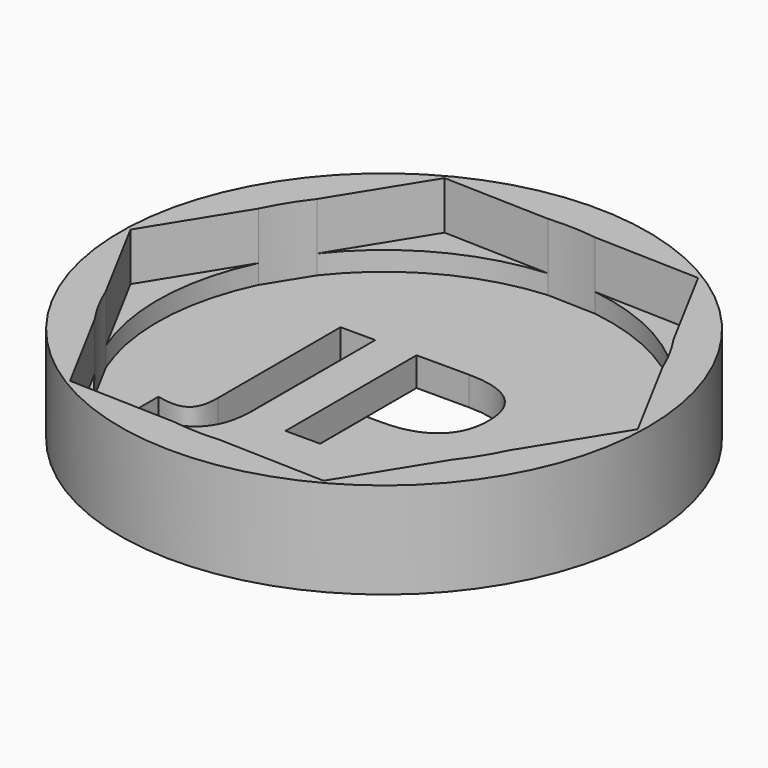
from build123d import *

# Parameters (mm, degrees)
F0_R     = 69.796681711
F1_DEPTH = 25.4
F2_DEPTH = 12.7
F3_DEPTH = 7.62


with BuildPart() as f1:
    # F0 (on Top) → F1 (new body)
    with BuildSketch(Plane.XY):
        Circle(F0_R)
        with BuildLine():
            Line((8.2760019114, 59.3649804818), (36.2610376693, 58.4861839798))
            Line((36.2610376693, 58.4861839798), (49.4924954528, 33.8110338366))
            ThreePointArc((49.4924954528, 33.8110338366), (52.8238405465, 28.3255182682), (55.5495821482, 22.5152623438))
            Line((55.5495821482, 22.5152623438), (68.7810399316, -2.1598877993))
            Line((68.7810399316, -2.1598877993), (54.0274619571, -25.9562414405))
            ThreePointArc((54.0274619571, -25.9562414405), (50.9425386689, -31.5840287047), (47.2735802367, -36.849718138))
            Line((47.2735802367, -36.849718138), (32.5200022623, -60.6460717791))
            Line((32.5200022623, -60.6460717791), (4.5349665043, -59.7672752771))
            ThreePointArc((4.5349665043, -59.7672752771), (-1.8813018777, -59.9095469729), (-8.2760019114, -59.3649804818))
            Line((-8.2760019114, -59.3649804818), (-36.2610376693, -58.4861839798))
            Line((-36.2610376693, -58.4861839798), (-49.4924954528, -33.8110338366))
            ThreePointArc((-49.4924954528, -33.8110338366), (-52.8238405465, -28.3255182682), (-55.5495821482, -22.5152623438))
            Line((-55.5495821482, -22.5152623438), (-68.7810399316, 2.1598877993))
            Line((-68.7810399316, 2.1598877993), (-54.0274619571, 25.9562414405))
            ThreePointArc((-54.0274619571, 25.9562414405), (-50.9425386689, 31.5840287047), (-47.2735802367, 36.849718138))
            Line((-47.2735802367, 36.849718138), (-32.5200022623, 60.6460717791))
            Line((-32.5200022623, 60.6460717791), (-4.5349665043, 59.7672752771))
            ThreePointArc((-4.5349665043, 59.7672752771), (1.8813018777, 59.9095469729), (8.2760019114, 59.3649804818))
        make_face(mode=Mode.SUBTRACT)
    extrude(amount=F1_DEPTH)


with BuildPart() as f2:
    # F0 (on Top) → F2 (new body)
    with BuildSketch(Plane.XY):
        with BuildLine():
            ThreePointArc((-55.5495821482, -22.5152623438), (-59.9095469729, 1.8813018777), (-54.0274619571, 25.9562414405))
            Line((-54.0274619571, 25.9562414405), (-68.7810399316, 2.1598877993))
            Line((-68.7810399316, 2.1598877993), (-55.5495821482, -22.5152623438))
        make_face()
    extrude(amount=F2_DEPTH)


with BuildPart() as f2b:
    # F0 (on Top) → F2, piece 2 (new body)
    with BuildSketch(Plane.XY):
        with BuildLine():
            ThreePointArc((-8.2760019114, -59.3649804818), (-31.5840287047, -50.9425386689), (-49.4924954528, -33.8110338366))
            Line((-49.4924954528, -33.8110338366), (-36.2610376693, -58.4861839798))
            Line((-36.2610376693, -58.4861839798), (-8.2760019114, -59.3649804818))
        make_face()
    extrude(amount=F2_DEPTH)


with BuildPart() as f2c:
    # F0 (on Top) → F2, piece 3 (new body)
    with BuildSketch(Plane.XY):
        with BuildLine():
            ThreePointArc((-47.2735802367, 36.849718138), (-28.3255182682, 52.8238405465), (-4.5349665043, 59.7672752771))
            Line((-4.5349665043, 59.7672752771), (-32.5200022623, 60.6460717791))
            Line((-32.5200022623, 60.6460717791), (-47.2735802367, 36.849718138))
        make_face()
    extrude(amount=F2_DEPTH)


with BuildPart() as f2d:
    # F0 (on Top) → F2, piece 4 (new body)
    with BuildSketch(Plane.XY):
        with BuildLine():
            Line((49.4924954528, 33.8110338366), (36.2610376693, 58.4861839798))
            Line((36.2610376693, 58.4861839798), (8.2760019114, 59.3649804818))
            ThreePointArc((8.2760019114, 59.3649804818), (31.5840287047, 50.9425386689), (49.4924954528, 33.8110338366))
        make_face()
    extrude(amount=F2_DEPTH)


with BuildPart() as f2e:
    # F0 (on Top) → F2, piece 5 (new body)
    with BuildSketch(Plane.XY):
        with BuildLine():
            Line((68.7810399316, -2.1598877993), (55.5495821482, 22.5152623438))
            ThreePointArc((55.5495821482, 22.5152623438), (58.8314706291, 11.4695762285), (59.939078365, 0))
            ThreePointArc((59.939078365, 0), (58.4424904986, -13.3104627856), (54.0274619571, -25.9562414405))
            Line((54.0274619571, -25.9562414405), (68.7810399316, -2.1598877993))
        make_face()
    extrude(amount=F2_DEPTH)


with BuildPart() as f2f:
    # F0 (on Top) → F2, piece 6 (new body)
    with BuildSketch(Plane.XY):
        with BuildLine():
            Line((32.5200022623, -60.6460717791), (47.2735802367, -36.849718138))
            ThreePointArc((47.2735802367, -36.849718138), (28.3255182682, -52.8238405465), (4.5349665043, -59.7672752771))
            Line((4.5349665043, -59.7672752771), (32.5200022623, -60.6460717791))
        make_face()
    extrude(amount=F2_DEPTH)


with BuildPart() as f3:
    # F0 (on Top) → F3 (new body)
    with BuildSketch(Plane.XY):
        with BuildLine():
            Line((55.5495821482, 22.5152623438), (49.4924954528, 33.8110338366))
            ThreePointArc((49.4924954528, 33.8110338366), (31.5840287047, 50.9425386689), (8.2760019114, 59.3649804818))
            Line((8.2760019114, 59.3649804818), (-4.5349665043, 59.7672752771))
            ThreePointArc((-4.5349665043, 59.7672752771), (-28.3255182682, 52.8238405465), (-47.2735802367, 36.849718138))
            Line((-47.2735802367, 36.849718138), (-54.0274619571, 25.9562414405))
            ThreePointArc((-54.0274619571, 25.9562414405), (-59.9095469729, 1.8813018777), (-55.5495821482, -22.5152623438))
            Line((-55.5495821482, -22.5152623438), (-49.4924954528, -33.8110338366))
            ThreePointArc((-49.4924954528, -33.8110338366), (-31.5840287047, -50.9425386689), (-8.2760019114, -59.3649804818))
            Line((-8.2760019114, -59.3649804818), (4.5349665043, -59.7672752771))
            ThreePointArc((4.5349665043, -59.7672752771), (28.3255182682, -52.8238405465), (47.2735802367, -36.849718138))
            Line((47.2735802367, -36.849718138), (54.0274619571, -25.9562414405))
            ThreePointArc((54.0274619571, -25.9562414405), (58.4424904986, -13.3104627856), (59.939078365, 0))
            ThreePointArc((59.939078365, 0), (58.8314706291, 11.4695762285), (55.5495821482, 22.5152623438))
        make_face()
        with BuildLine():
            add(Edge.make_bspline(
                [(-23.2488715606, -30.2585081788), (-26.7136230383, -34.2304120616), (-33.5009337307, -34.2304120616)],
                knots=[0, 0, 0, 1, 1, 1], degree=2))
            add(Edge.make_bspline(
                [(-33.5009337307, -34.2304120616), (-36.6102045506, -34.2304120616), (-38.9231986972, -33.5763276513)],
                knots=[0, 0, 0, 1, 1, 1], degree=2))
            Line((-38.9231986972, -33.5763276513), (-38.9231986972, -25.9358633804))
            add(Edge.make_bspline(
                [(-38.9231986972, -25.9358633804), (-36.5533276454, -26.5235914012), (-34.6005538987, -26.5235914012)],
                knots=[0, 0, 0, 1, 1, 1], degree=2))
            add(Edge.make_bspline(
                [(-34.6005538987, -26.5235914012), (-31.5765984366, -26.5235914012), (-30.2731693581, -24.6419137861)],
                knots=[0, 0, 0, 1, 1, 1], degree=2))
            add(Edge.make_bspline(
                [(-30.2731693581, -24.6419137861), (-28.9697402796, -22.760236171), (-28.9697402796, -18.7598938355)],
                knots=[0, 0, 0, 1, 1, 1], degree=2))
            Line((-28.9697402796, -18.7598938355), (-28.9697402796, 21.8217780554))
            Line((-28.9697402796, 21.8217780554), (-19.7841200829, 21.8217780554))
            Line((-19.7841200829, 21.8217780554), (-19.7841200829, -18.7030169303))
            add(Edge.make_bspline(
                [(-19.7841200829, -18.7030169303), (-19.7841200829, -26.286604296), (-23.2488715606, -30.2585081788)],
                knots=[0, 0, 0, 1, 1, 1], degree=2))
        make_face(mode=Mode.SUBTRACT)
        with BuildLine():
            add(Edge.make_bspline(
                [(16.9346619936, 18.4281227092), (21.0345389132, 15.0344673631), (21.0345389132, 8.3135130602)],
                knots=[0, 0, 0, 1, 1, 1], degree=2))
            add(Edge.make_bspline(
                [(21.0345389132, 8.3135130602), (21.0345389132, 1.3176537153), (16.6644966937, -2.3840848676)],
                knots=[0, 0, 0, 1, 1, 1], degree=2))
            add(Edge.make_bspline(
                [(16.6644966937, -2.3840848676), (12.2944544742, -6.0858234505), (4.2368928981, -6.0858234505)],
                knots=[0, 0, 0, 1, 1, 1], degree=2))
            Line((4.2368928981, -6.0858234505), (0.3029069521, -6.0858234505))
            Line((0.3029069521, -6.0858234505), (0.3029069521, -21.4899852872))
            Line((0.3029069521, -21.4899852872), (-8.8827132446, -21.4899852872))
            Line((-8.8827132446, -21.4899852872), (-8.8827132446, 21.8217780554))
            Line((-8.8827132446, 21.8217780554), (4.9478542136, 21.8217780554))
            add(Edge.make_bspline(
                [(4.9478542136, 21.8217780554), (12.834785074, 21.8217780554), (16.9346619936, 18.4281227092)],
                knots=[0, 0, 0, 1, 1, 1], degree=2))
        make_face(mode=Mode.SUBTRACT)
    extrude(amount=F3_DEPTH)


solid = Compound([f1.part, f2.part, f2b.part, f2c.part, f2d.part, f2e.part, f2f.part, f3.part])
